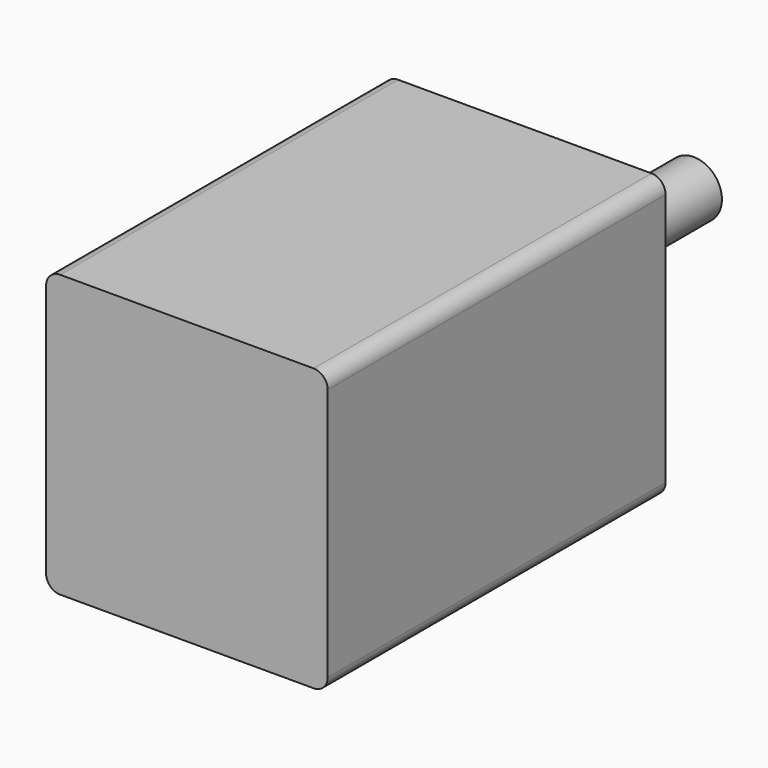
from build123d import *

# Parameters (mm, degrees)
F0_W     = 20
F0_H     = 20
F0_R     = 7.5
F0_R_2   = 2
F1_DEPTH = 30
F2_DEPTH = 15
F3_R     = 1
F4_DEPTH = 1.5


with BuildPart() as f1:
    # F0 (on Front) → F1 (new body)
    with BuildSketch(Plane.XZ):
        Rectangle(F0_W, F0_H)
        Circle(F0_R, mode=Mode.SUBTRACT)
        Circle(F0_R)
        Circle(F0_R_2, mode=Mode.SUBTRACT)
        Circle(F0_R_2)
    extrude(amount=F1_DEPTH)

    # F0 (on Front) → F2 (join)
    with BuildSketch(Plane.XZ):
        Circle(F0_R_2)
    extrude(amount=-F2_DEPTH)

    # F3
    f3_edges = [f1.edges().sort_by_distance(p)[0] for p in [
        (10, -15, 10),
        (-10, -15, 10),
        (-10, -15, -10),
        (10, -15, -10),
    ]]
    fillet(f3_edges, radius=F3_R)

    # F0 (on Front) → F4 (join)
    with BuildSketch(Plane.XZ):
        Circle(F0_R)
        Circle(F0_R_2, mode=Mode.SUBTRACT)
    extrude(amount=-F4_DEPTH)


solid = f1.part
